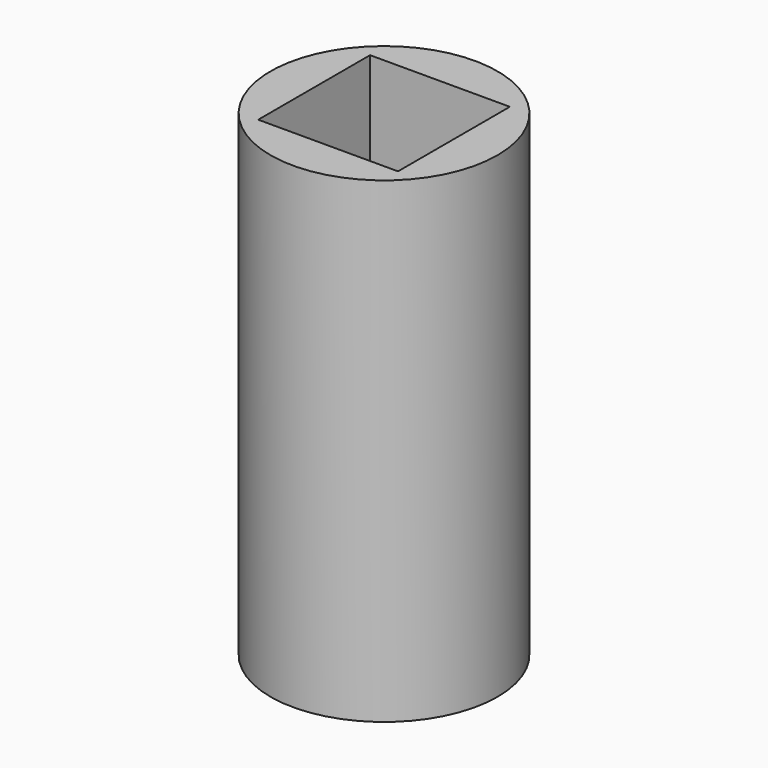
from build123d import *

# Parameters (mm, degrees)
F0_R     = 5.7785
F1_DEPTH = 15.875
F2_DEPTH = 5.08
F3_D     = 5.08
F5_R     = 5.7785
F5_W     = 7.112
F5_H     = 7.112
F6_DEPTH = 8.382


with BuildPart() as f1:
    # F0 (on Top) → F1 (new body)
    with BuildSketch(Plane.XY):
        Circle(F0_R)
        Polygon((2.851977, 4.267348), (5.12162, -0.336211), (2.269643, -4.603559), (-2.851977, -4.267348), (-5.12162, 0.336211), (-2.269643, 4.603559), align=None, mode=Mode.SUBTRACT)
        Polygon((2.269643, -4.603559), (5.12162, -0.336211), (2.851977, 4.267348), (-2.269643, 4.603559), (-5.12162, 0.336211), (-2.851977, -4.267348), align=None)
    extrude(amount=F1_DEPTH)

    # F0 (on Top) → F2 (cut)
    with BuildSketch(Plane.XY):
        Polygon((2.269643, -4.603559), (5.12162, -0.336211), (2.851977, 4.267348), (-2.269643, 4.603559), (-5.12162, 0.336211), (-2.851977, -4.267348), align=None)
    extrude(amount=F2_DEPTH, mode=Mode.SUBTRACT)

    # F3 (through all)
    with Locations(Plane(origin=(0, 0, 0), x_dir=(1, 0, 0), z_dir=(0, 0, -1))):
        with Locations((0, 0)):
            Hole(F3_D / 2)

    # F5 (on face) → F6 (join)
    with BuildSketch(Plane.XY.offset(15.875)):
        Circle(F5_R)
        Rectangle(F5_W, F5_H, mode=Mode.SUBTRACT)
    extrude(amount=F6_DEPTH)


solid = f1.part
